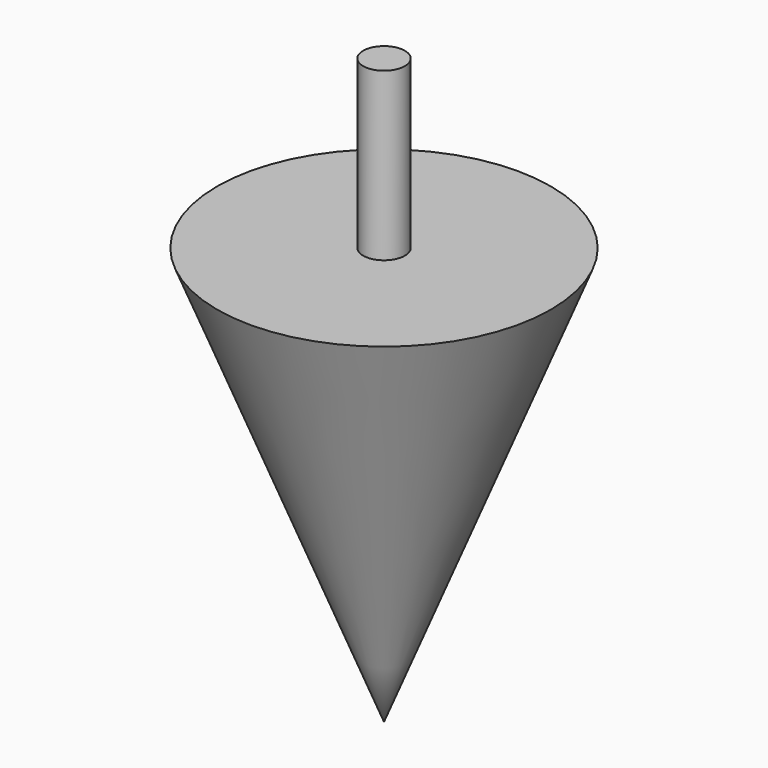
from build123d import *

# Parameters (mm, degrees)
F2_R     = 76.2
F3_DEPTH = 609.6
F0_R     = 609.6


with BuildPart() as f3:
    # F2 (on offset) → F3 (new body)
    with BuildSketch(Plane.XY.offset(609.6)):
        Circle(F2_R)
    extrude(amount=-F3_DEPTH)

    # F0 (on Top) → F6 section 0
    with BuildSketch(Plane.XY, mode=Mode.PRIVATE) as f6_s0:
        Circle(F0_R)
    loft([f6_s0.sketch, Vertex(0, 0, -1524)])


solid = f3.part
